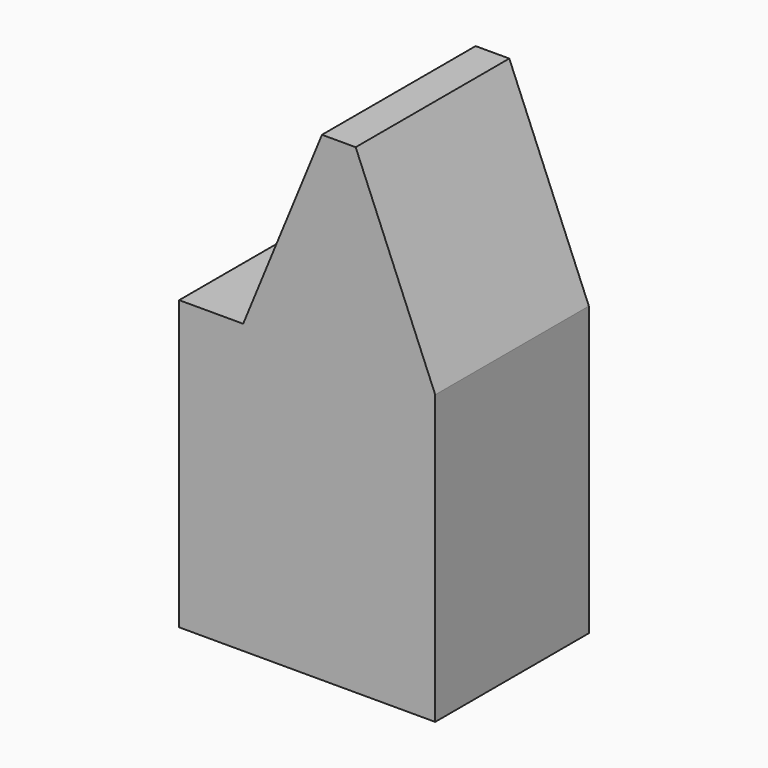
from build123d import *

# Parameters (mm, degrees)
F0_W     = 9.525
F0_H     = 114.3
F1_DEPTH = 76.2
F3_DEPTH = 26.416
F4_DEPTH = 66.294
F5_DEPTH = 25.4
F6_DEPTH = 22.098


with BuildPart() as f1:
    # F0 (on Front) → F1 (new body)
    with BuildSketch(Plane.XZ):
        Polygon((6.5378730087, 113.1293577969), (0, 113.1293577969), (-6.8322808368, 113.1293577969), (-38.1, 36.9293577969), (-28.575, 36.9293577969), (-19.05, 36.9293577969), (-9.525, 36.9293577969), (0, 36.9293577969), (9.525, 36.9293577969), (19.05, 36.9293577969), (28.575, 36.9293577969), (38.1, 36.9293577969), align=None)
        with Locations((-33.3375, -20.2206422031)):
            Rectangle(F0_W, F0_H)
        with Locations((33.3375, -20.2206422031)):
            Rectangle(F0_W, F0_H)
        with Locations((-23.8125, -20.2206422031)):
            Rectangle(F0_W, F0_H)
        with Locations((23.8125, -20.2206422031)):
            Rectangle(F0_W, F0_H)
        with Locations((-14.2875, -20.2206422031)):
            Rectangle(F0_W, F0_H)
        with Locations((14.2875, -20.2206422031)):
            Rectangle(F0_W, F0_H)
        with Locations((-4.7625, -20.2206422031)):
            Rectangle(F0_W, F0_H)
        with Locations((4.7625, -20.2206422031)):
            Rectangle(F0_W, F0_H)
    extrude(amount=F1_DEPTH)

    # F3 (add): a face of the model
    f3_faces = [f1.faces().sort_by_distance(p)[0] for p in [
        (-0.0158753799, -76.2, 4.0859057687),
    ]]
    extrude(f3_faces, amount=-F3_DEPTH)

    # F0 (on Front) → F4 (join)
    with BuildSketch(Plane.XZ):
        Polygon((6.5378730087, 113.1293577969), (0, 113.1293577969), (-6.8322808368, 113.1293577969), (-38.1, 36.9293577969), (-28.575, 36.9293577969), (-19.05, 36.9293577969), (-9.525, 36.9293577969), (0, 36.9293577969), (9.525, 36.9293577969), (19.05, 36.9293577969), (28.575, 36.9293577969), (38.1, 36.9293577969), align=None)
        with Locations((-33.3375, -20.2206422031)):
            Rectangle(F0_W, F0_H)
        with Locations((33.3375, -20.2206422031)):
            Rectangle(F0_W, F0_H)
        with Locations((-23.8125, -20.2206422031)):
            Rectangle(F0_W, F0_H)
        with Locations((23.8125, -20.2206422031)):
            Rectangle(F0_W, F0_H)
        with Locations((-14.2875, -20.2206422031)):
            Rectangle(F0_W, F0_H)
        with Locations((14.2875, -20.2206422031)):
            Rectangle(F0_W, F0_H)
        with Locations((-4.7625, -20.2206422031)):
            Rectangle(F0_W, F0_H)
        with Locations((4.7625, -20.2206422031)):
            Rectangle(F0_W, F0_H)
    extrude(amount=F4_DEPTH)

    # F5 (add): a face of the model
    f5_faces = [f1.faces().sort_by_distance(p)[0] for p in [
        (-38.1, -38.1, -20.2206422031),
    ]]
    extrude(f5_faces, amount=F5_DEPTH)

    # F6 (add): a face of the model
    f6_faces = [f1.faces().sort_by_distance(p)[0] for p in [
        (-9.8283580395, 0, -0.6105930343),
    ]]
    extrude(f6_faces, amount=-F6_DEPTH)


solid = f1.part
